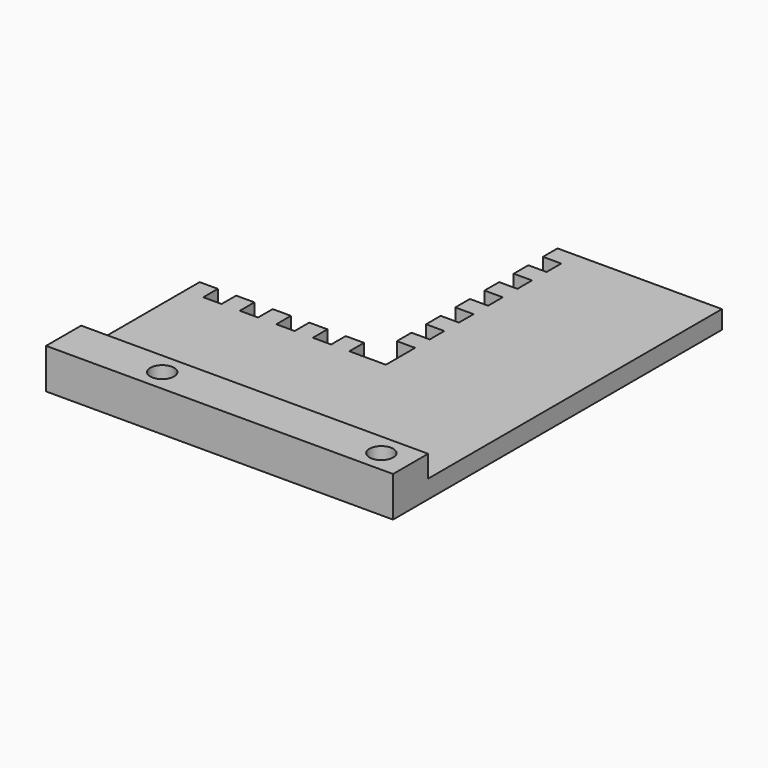
from build123d import *

# Parameters (mm, degrees)
F1_DEPTH = 11
F3_D     = 6.5
F4_D     = 6.5
F5_DEPTH = 5


with BuildPart() as f1:
    # F0 (on Top) → F1 (new body)
    with BuildSketch(Plane.XY):
        Polygon((-19, 0), (0, 0), (76, 0), (76, 12), (0, 12), (-19, 12), align=None)
    extrude(amount=F1_DEPTH)

    # F3 (through all)
    with Locations(Plane.XY.offset(11)):
        with Locations((8, 6)):
            Hole(F3_D / 2)

    # F4 (through all)
    with Locations(Plane.XY.offset(11)):
        with Locations((68, 6)):
            Hole(F4_D / 2)

    # F0 (on Top) → F5 (join)
    with BuildSketch(Plane.XY):
        Polygon((0, 12), (76, 12), (76, 52.551852), (76, 55), (76, 112.551852), (31, 112.551852), (31, 107.551852), (36, 107.551852), (36, 102.551852), (31, 102.551852), (31, 97.551852), (36, 97.551852), (36, 92.551852), (31, 92.551852), (31, 87.551852), (36, 87.551852), (36, 82.551852), (31, 82.551852), (31, 77.551852), (36, 77.551852), (36, 72.551852), (31, 72.551852), (31, 67.551852), (36, 67.551852), (36, 62.551852), (31, 62.551852), (31, 57.551852), (36, 57.551852), (36, 52.551852), (36, 47.551852), (26, 47.551852), (26, 52.551852), (21, 52.551852), (21, 47.551852), (16, 47.551852), (16, 52.551852), (11, 52.551852), (11, 47.551852), (6, 47.551852), (6, 52.551852), (1, 52.551852), (1, 47.551852), (-4, 47.551852), (-4, 52.551852), (-9, 52.551852), (-9, 47.551852), (-14, 47.551852), (-14, 52.551852), (-19, 52.551852), (-19, 47.551852), (-19, 12), align=None)
    extrude(amount=F5_DEPTH)


solid = f1.part
